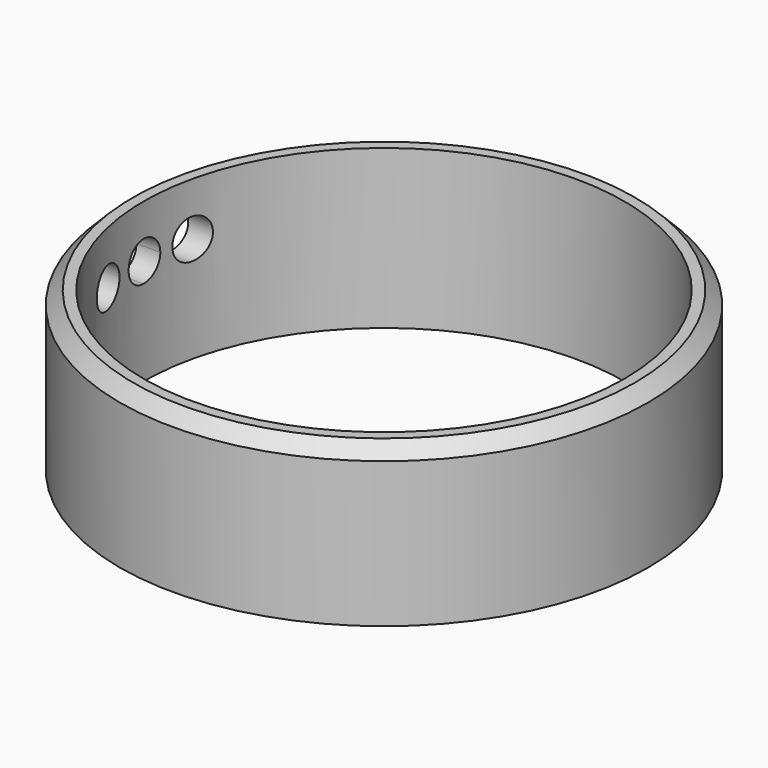
from build123d import *

# Parameters (mm, degrees)
F0_R     = 10
F0_R_2   = 9.1
F1_DEPTH = 6
F2_R     = 0.75
F3_DEPTH = 25
F4_SIZE  = 0.5


with BuildPart() as f1:
    # F0 (on Top) → F1 (new body)
    with BuildSketch(Plane.XY):
        Circle(F0_R)
        Circle(F0_R_2, mode=Mode.SUBTRACT)
    extrude(amount=F1_DEPTH)

    # F2 (on Right) → F3 (cut)
    with BuildSketch(Plane.YZ):
        with BuildLine():
            ThreePointArc((2.75, 4), (2, 4.75), (1.25, 4))
            ThreePointArc((1.25, 4), (2, 3.25), (2.75, 4))
        make_face()
        with BuildLine():
            Line((0, 4), (0, 3.25))
            ThreePointArc((0, 3.25), (0.53033, 3.46967), (0.75, 4))
            Line((0.75, 4), (0, 4))
        make_face()
        with BuildLine():
            Line((-0.75, 4), (0, 4))
            Line((0, 4), (0.75, 4))
            ThreePointArc((0.75, 4), (0, 4.75), (-0.75, 4))
        make_face()
        with BuildLine():
            ThreePointArc((-0.75, 4), (-0.53033, 3.46967), (0, 3.25))
            Line((0, 3.25), (0, 4))
            Line((0, 4), (-0.75, 4))
        make_face()
        with Locations((-2, 4)):
            Circle(F2_R)
    extrude(amount=-F3_DEPTH, mode=Mode.SUBTRACT)

    # F4
    f4_edges = [f1.edges().sort_by_distance(p)[0] for p in [
        (-10, 0, 6),
    ]]
    chamfer(f4_edges, length=F4_SIZE)


solid = f1.part
